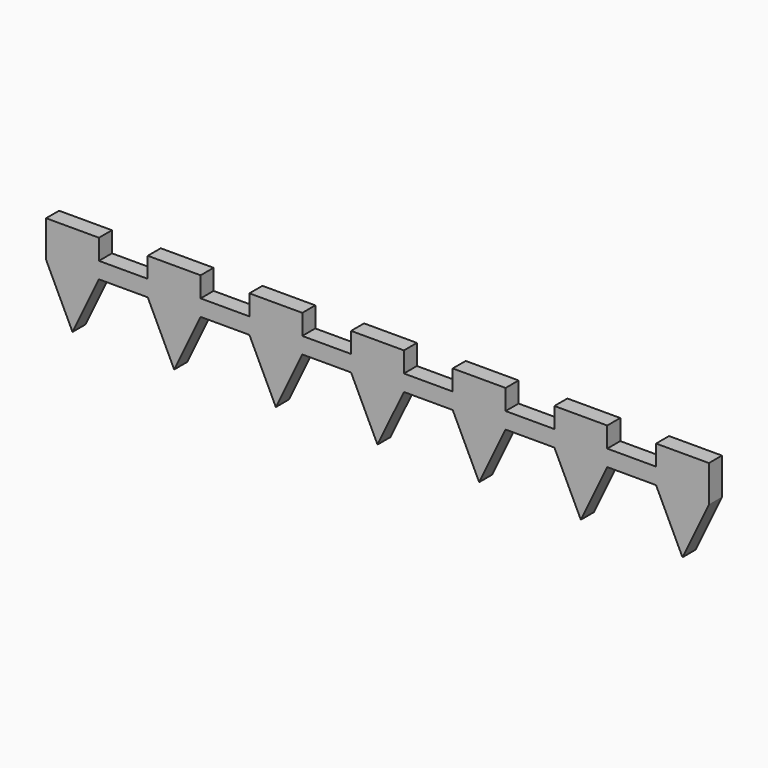
from build123d import *

# Parameters (mm, degrees)
F0_W     = 13
F0_H     = 4
F0_W_2   = 12
F1_DEPTH = 4
F2_DEPTH = 9
F4_DEPTH = 4


with BuildPart() as f1:
    # F0 (on Top) → F1 (new body)
    with BuildSketch(Plane.XY):
        with Locations((6.5, 2)):
            Rectangle(F0_W, F0_H)
        with Locations((19, 2)):
            Rectangle(F0_W_2, F0_H)
        with Locations((31.5, 2)):
            Rectangle(F0_W, F0_H)
        with Locations((44, 2)):
            Rectangle(F0_W_2, F0_H)
        with Locations((56.5, 2)):
            Rectangle(F0_W, F0_H)
        with Locations((69, 2)):
            Rectangle(F0_W_2, F0_H)
        with Locations((81.5, 2)):
            Rectangle(F0_W, F0_H)
        with Locations((94, 2)):
            Rectangle(F0_W_2, F0_H)
        with Locations((106.5, 2)):
            Rectangle(F0_W, F0_H)
        with Locations((119, 2)):
            Rectangle(F0_W_2, F0_H)
        with Locations((131.5, 2)):
            Rectangle(F0_W, F0_H)
        with Locations((144, 2)):
            Rectangle(F0_W_2, F0_H)
        with Locations((156.5, 2)):
            Rectangle(F0_W, F0_H)
    extrude(amount=F1_DEPTH)

    # F0 (on Top) → F2 (join)
    with BuildSketch(Plane.XY):
        with Locations((6.5, 2)):
            Rectangle(F0_W, F0_H)
        with Locations((31.5, 2)):
            Rectangle(F0_W, F0_H)
        with Locations((56.5, 2)):
            Rectangle(F0_W, F0_H)
        with Locations((81.5, 2)):
            Rectangle(F0_W, F0_H)
        with Locations((106.5, 2)):
            Rectangle(F0_W, F0_H)
        with Locations((131.5, 2)):
            Rectangle(F0_W, F0_H)
        with Locations((156.5, 2)):
            Rectangle(F0_W, F0_H)
    extrude(amount=F2_DEPTH)

    # F3 (on face) → F4 (join)
    with BuildSketch(Plane.XZ):
        Polygon((13, 0), (0, 0), (6.5, -13.518506), align=None)
        Polygon((38, 0), (25, 0), (31.5, -13.518506), align=None)
        Polygon((63, 0), (50, 0), (56.5, -13.518506), align=None)
        Polygon((88, 0), (75, 0), (81.5, -13.518506), align=None)
        Polygon((113, 0), (100, 0), (106.5, -13.518506), align=None)
        Polygon((138, 0), (125, 0), (131.5, -13.518506), align=None)
        Polygon((163, 0), (150, 0), (156.5, -13.518506), align=None)
    extrude(amount=-F4_DEPTH)


solid = f1.part
